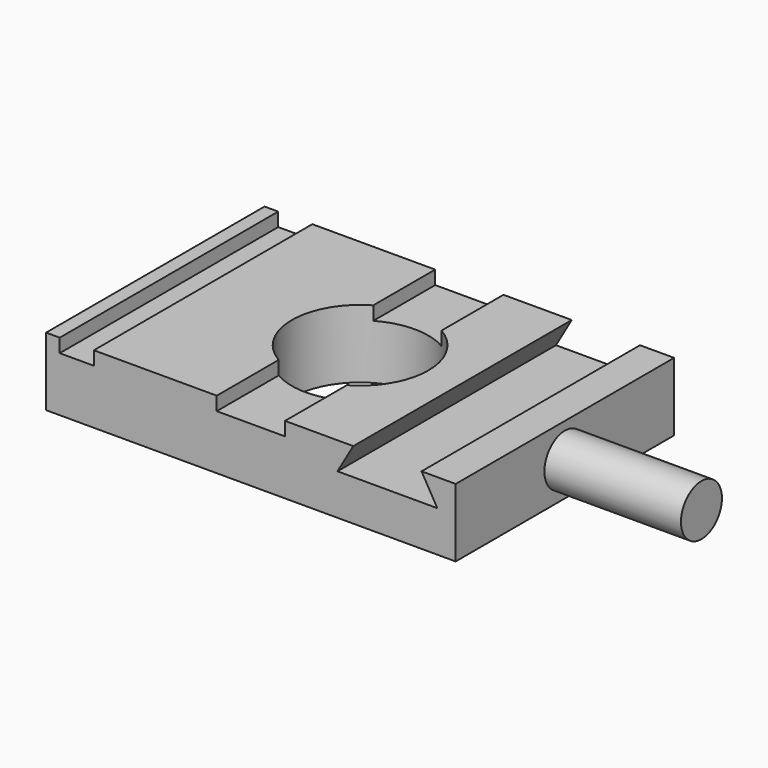
from build123d import *

# Parameters (mm, degrees)
F0_W     = 76.2
F0_H     = 50.8
F0_R     = 12.7
F1_DEPTH = 12.7
F2_W     = 6.35
F2_H     = 50.8
F3_DEPTH = 2.54
F5_DEPTH = 50.801
F6_R     = 4.7625
F7_DEPTH = 25.4


with BuildPart() as f1:
    # F0 (on Top) → F1 (new body)
    with BuildSketch(Plane.XY):
        Rectangle(F0_W, F0_H)
        Circle(F0_R, mode=Mode.SUBTRACT)
    extrude(amount=F1_DEPTH)

    # F2 (on face) → F3 (cut)
    with BuildSketch(Plane.XY.offset(12.7)):
        with Locations((-32.385, 0)):
            Rectangle(F2_W, F2_H)
        with BuildLine():
            Line((6.35, 25.4), (-6.35, 25.4))
            Line((-6.35, 25.4), (-6.35, 10.9985226281))
            ThreePointArc((-6.35, 10.9985226281), (0, 12.7), (6.35, 10.9985226281))
            Line((6.35, 10.9985226281), (6.35, 25.4))
        make_face()
        with BuildLine():
            ThreePointArc((6.35, 10.9985226281), (0, 12.7), (-6.35, 10.9985226281))
            Line((-6.35, 10.9985226281), (-6.35, -10.9985226281))
            ThreePointArc((-6.35, -10.9985226281), (0, -12.7), (6.35, -10.9985226281))
            Line((6.35, -10.9985226281), (6.35, 10.9985226281))
        make_face()
        with BuildLine():
            Line((-6.35, -10.9985226281), (-6.35, -25.4))
            Line((-6.35, -25.4), (6.35, -25.4))
            Line((6.35, -25.4), (6.35, -10.9985226281))
            ThreePointArc((6.35, -10.9985226281), (0, -12.7), (-6.35, -10.9985226281))
        make_face()
    extrude(amount=-F3_DEPTH, mode=Mode.SUBTRACT)

    # F4 (on face) → F5 (cut, through all)
    with BuildSketch(Plane.XZ.offset(25.4)):
        Polygon((31.75, 12.7), (19.05, 12.7), (16.1170606325, 7.62), (34.6829393675, 7.62), align=None)
    extrude(amount=-F5_DEPTH, mode=Mode.SUBTRACT)

    # F6 (on face) → F7 (join)
    with BuildSketch(Plane.YZ.offset(38.1)):
        with Locations((0, 6.35)):
            Circle(F6_R)
    extrude(amount=F7_DEPTH)


solid = f1.part
